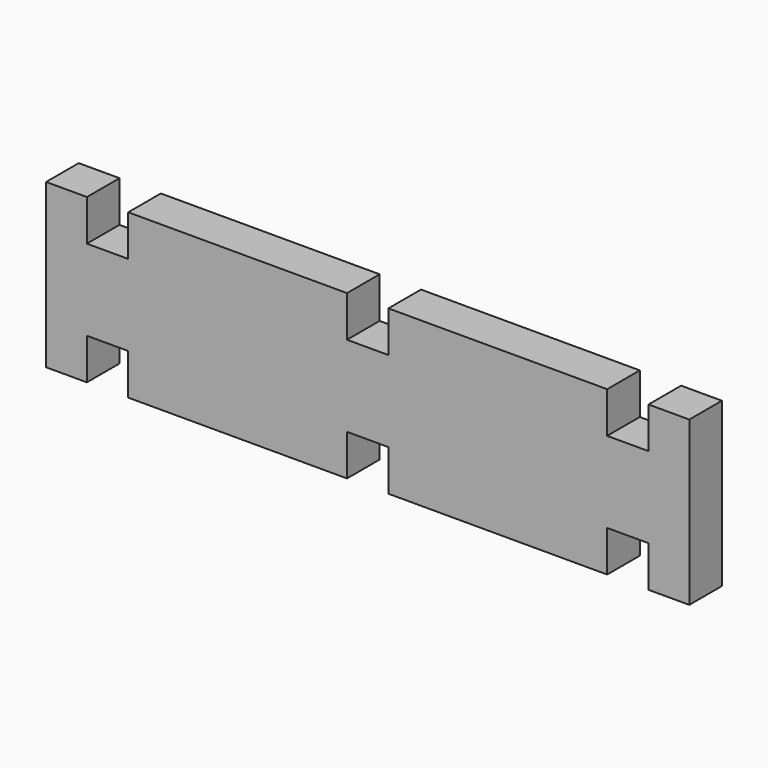
from build123d import *

# Parameters (mm, degrees)
F1_DEPTH = 3


with BuildPart() as f1:
    # F0 (on Front) → F1 (new body)
    with BuildSketch(Plane.XZ):
        Polygon((-23.65, 0), (-20.65, 0), (-20.65, 3.02), (-17.61, 3.02), (-17.61, 0), (-1.52, 0), (-1.52, 3.02), (1.52, 3.02), (1.52, 0), (17.61, 0), (17.61, 3.02), (20.65, 3.02), (20.65, 0), (23.65, 0), (23.65, 12), (20.65, 12), (20.65, 8.98), (17.61, 8.98), (17.61, 12), (1.52, 12), (1.52, 8.98), (-1.52, 8.98), (-1.52, 12), (-17.61, 12), (-17.61, 8.98), (-20.65, 8.98), (-20.65, 12), (-23.65, 12), align=None)
    extrude(amount=F1_DEPTH)


solid = f1.part
